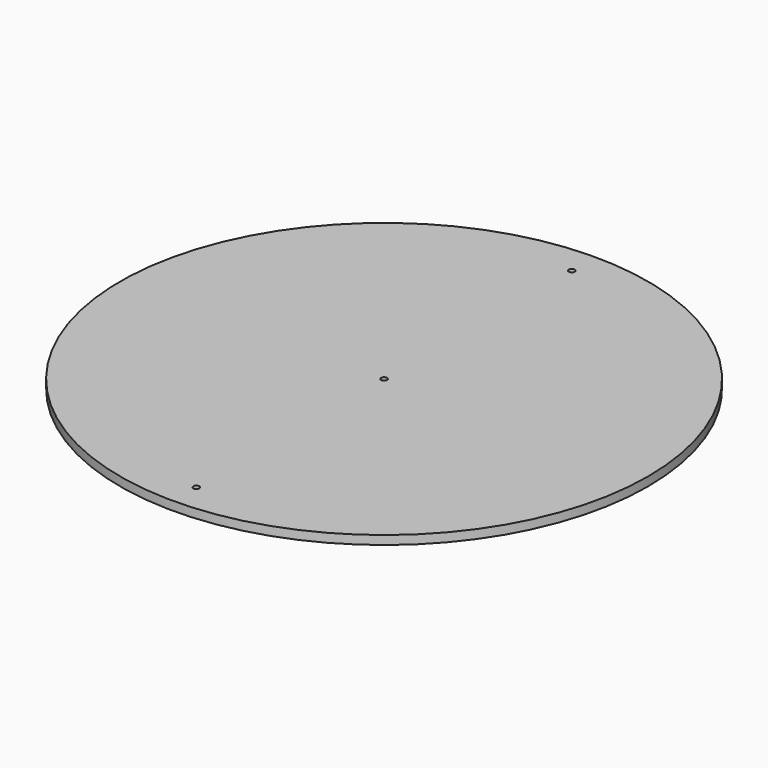
from build123d import *

# Parameters (mm, degrees)
F0_R     = 571.5
F0_R_2   = 6.477
F1_DEPTH = 19.05


with BuildPart() as f1:
    # F0 (on Top) → F1 (new body)
    with BuildSketch(Plane.XY):
        Circle(F0_R)
        with Locations((0, -508)):
            Circle(F0_R_2, mode=Mode.SUBTRACT)
        Circle(F0_R_2, mode=Mode.SUBTRACT)
        with Locations((0, 508)):
            Circle(F0_R_2, mode=Mode.SUBTRACT)
    extrude(amount=F1_DEPTH)


solid = f1.part
